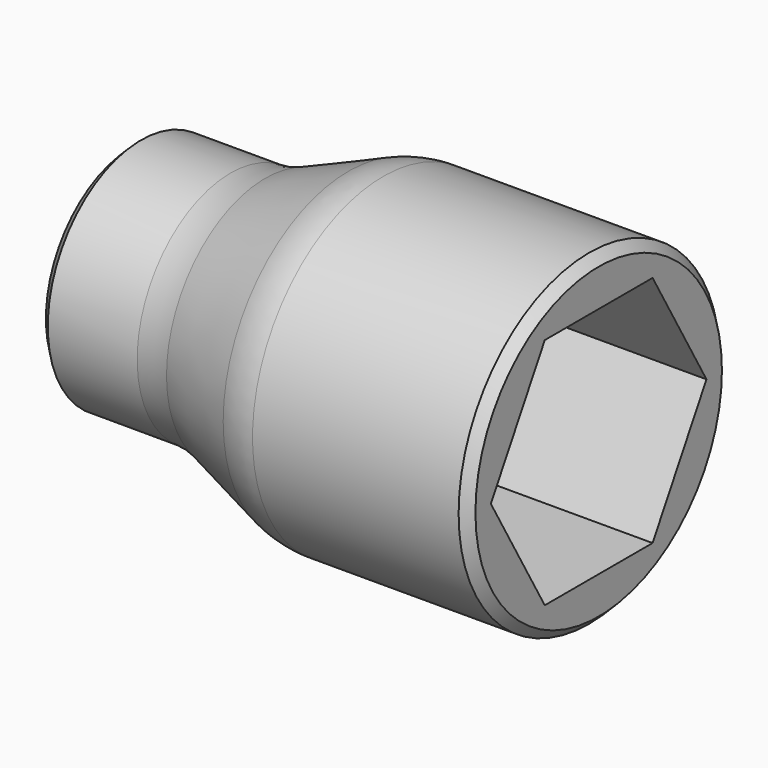
from build123d import *

# Parameters (mm, degrees)
F2_W     = 6.35
F2_H     = 6.35
F3_DEPTH = 6.35
F5_DEPTH = 12.7
F6_R     = 5.08
F7_SIZE  = 0.508


with BuildPart() as f1:
    # F0 (on Top) → F1 (revolve)
    with BuildSketch(Plane.XY):
        Polygon((0, 6.35), (0, 0), (25.4, 0), (25.4, 8.89), (12.7, 8.89), (6.35, 6.35), align=None)
    revolve(axis=Axis((-3.302, 0, 0), (-1, 0, 0)))

    # F2 (on face) → F3 (cut)
    with BuildSketch(Plane(origin=(0, 0, 0), x_dir=(0, -1, 0), z_dir=(-1, 0, 0))):
        Rectangle(F2_W, F2_H)
    extrude(amount=-F3_DEPTH, mode=Mode.SUBTRACT)

    # F4 (on face) → F5 (cut)
    with BuildSketch(Plane.YZ.offset(25.4)):
        Polygon((7.332348, 0), (3.666174, 6.35), (-3.666174, 6.35), (-7.332348, 0), (-3.666174, -6.35), (3.666174, -6.35), align=None)
    extrude(amount=-F5_DEPTH, mode=Mode.SUBTRACT)

    # F6
    f6_edges = [f1.edges().sort_by_distance(p)[0] for p in [
        (12.7, -8.89, 0),
        (6.35, -6.35, 0),
    ]]
    fillet(f6_edges, radius=F6_R)

    # F7
    f7_edges = [f1.edges().sort_by_distance(p)[0] for p in [
        (25.4, -8.89, 0),
        (0, -6.35, 0),
    ]]
    chamfer(f7_edges, length=F7_SIZE)


solid = f1.part
